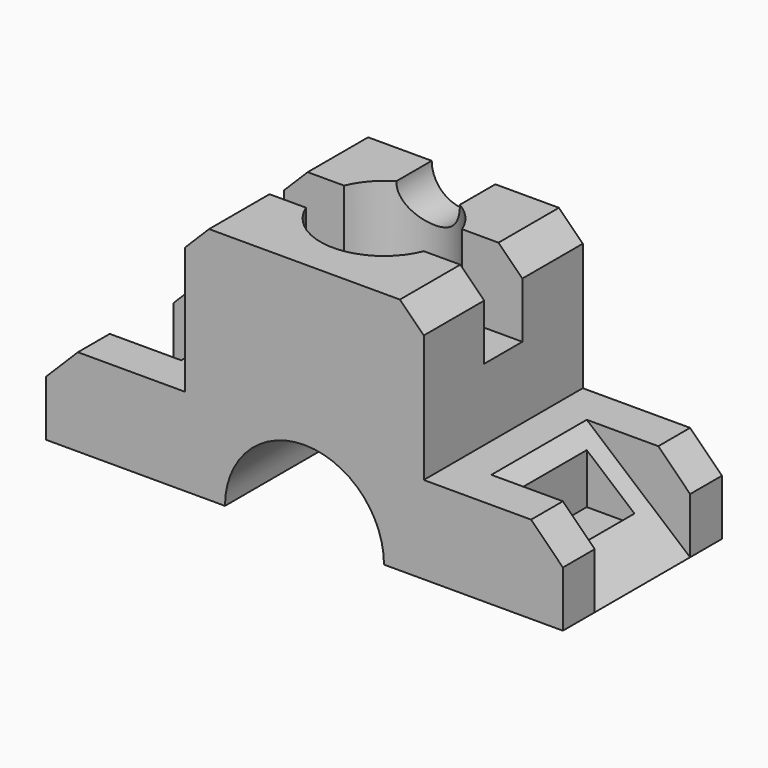
from build123d import *

# Parameters (mm, degrees)
F1_DEPTH  = 50
F2_SIZE   = 8
F3_SIZE   = 6
F4_W      = 6
F4_H      = 12
F5_DEPTH  = 20
F6_R      = 16
F7_DEPTH  = 30
F8_R      = 8
F9_DEPTH  = 25.4
F10_W     = 110.0508913994
F10_H     = 30
F11_DEPTH = 22.001
F12_W     = 112.4475047588
F12_H     = 30
F13_DEPTH = 22.001
F15_DEPTH = 30
F17_DEPTH = 30
F18_W     = 12
F18_H     = 20
F19_DEPTH = 16
F20_W     = 12
F20_H     = 20
F21_DEPTH = 16
F22_R     = 20
F23_DEPTH = 50.0010001


with BuildPart() as f1:
    # F0 (on Front) → F1 (new body)
    with BuildSketch(Plane.XZ):
        Polygon((-65, -8), (-65, -30), (65, -30), (65, -8), (30, -8), (30, 30), (-30, 30), (-30, -8), align=None)
    extrude(amount=F1_DEPTH)

    # F2
    f2_edges = [f1.edges().sort_by_distance(p)[0] for p in [
        (-65, -25, -8),
        (65, -25, -8),
    ]]
    chamfer(f2_edges, length=F2_SIZE)

    # F3
    f3_edges = [f1.edges().sort_by_distance(p)[0] for p in [
        (-30, -25, 30),
        (30, -25, 30),
    ]]
    chamfer(f3_edges, length=F3_SIZE)

    # F4 (on face) → F5 (cut)
    with BuildSketch(Plane.XY.offset(30)):
        with Locations((-27, -25)):
            Rectangle(F4_W, F4_H)
        with Locations((27, -25)):
            Rectangle(F4_W, F4_H)
        with BuildLine():
            Line((-24, -19), (-24, -31))
            Line((-24, -31), (-14.8323969742, -31))
            ThreePointArc((-14.8323969742, -31), (-16, -25), (-14.8323969742, -19))
            Line((-14.8323969742, -19), (-24, -19))
        make_face()
        with BuildLine():
            ThreePointArc((16, -25), (15.70538684, -28.0562761993), (14.8323969742, -31))
            Line((14.8323969742, -31), (24, -31))
            Line((24, -31), (24, -19))
            Line((24, -19), (14.8323969742, -19))
            ThreePointArc((14.8323969742, -19), (15.70538684, -21.9437238007), (16, -25))
        make_face()
    extrude(amount=-F5_DEPTH, mode=Mode.SUBTRACT)

    # F6 (on face) → F7 (cut)
    with BuildSketch(Plane.XY.offset(30)):
        with Locations((0, -25)):
            Circle(F6_R)
    extrude(amount=-F7_DEPTH, mode=Mode.SUBTRACT)

    # F8 (on face) → F9 (cut)
    with BuildSketch(Plane(origin=(0, 0, 0), x_dir=(-1, 0, 0), z_dir=(0, 1, 0))):
        with Locations((0, 30)):
            Circle(F8_R)
    extrude(amount=-F9_DEPTH, mode=Mode.SUBTRACT)

    # F10 (on face) → F11 (cut, through all)
    with BuildSketch(Plane.XY.offset(-8)):
        with Locations((-94.0254456997, -25)):
            Rectangle(F10_W, F10_H)
    extrude(amount=-F11_DEPTH, mode=Mode.SUBTRACT)

    # F12 (on face) → F13 (cut, through all)
    with BuildSketch(Plane.XY.offset(-8)):
        with Locations((95.2237523794, -25)):
            Rectangle(F12_W, F12_H)
    extrude(amount=-F13_DEPTH, mode=Mode.SUBTRACT)

    # F14 (on face) → F15 (join)
    with BuildSketch(Plane.XZ.offset(10)):
        Polygon((39, -30), (65, -30), (39, -8), align=None)
    extrude(amount=F15_DEPTH)

    # F16 (on face) → F17 (join)
    with BuildSketch(Plane.XZ.offset(10)):
        Polygon((-65, -30), (-39, -30), (-39, -8), align=None)
    extrude(amount=F17_DEPTH)

    # F18 (on face) → F19 (cut)
    with BuildSketch(Plane.XY.offset(-8)):
        with Locations((49, -25)):
            Rectangle(F18_W, F18_H)
    extrude(amount=-F19_DEPTH, mode=Mode.SUBTRACT)

    # F20 (on face) → F21 (cut)
    with BuildSketch(Plane.XY.offset(-8)):
        with Locations((-49, -25)):
            Rectangle(F20_W, F20_H)
    extrude(amount=-F21_DEPTH, mode=Mode.SUBTRACT)

    # F22 (on face) → F23 (cut, through all)
    with BuildSketch(Plane.XZ.offset(50)):
        with Locations((0, -30)):
            Circle(F22_R)
    extrude(amount=-F23_DEPTH, mode=Mode.SUBTRACT)


solid = f1.part
